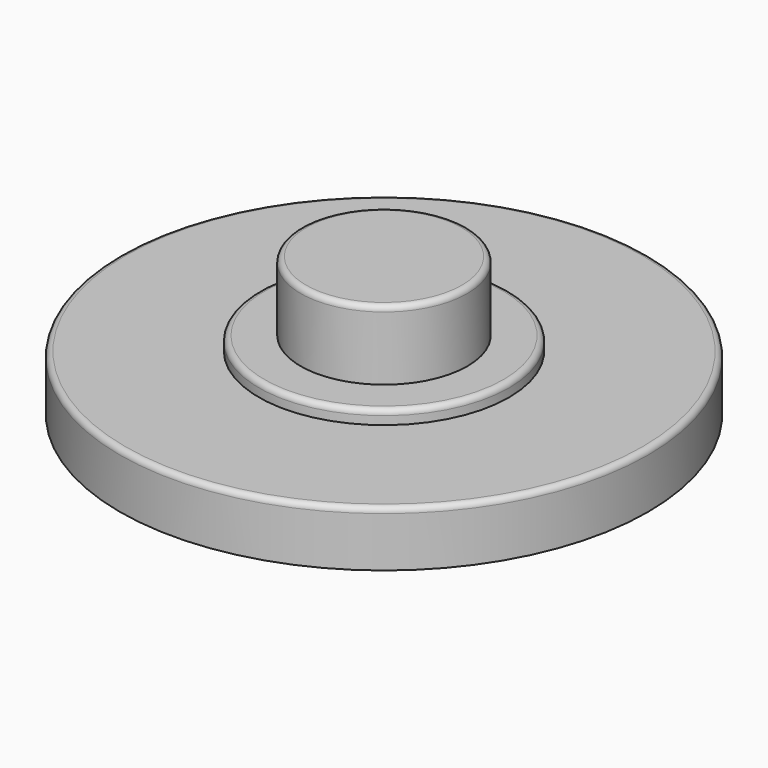
from build123d import *

# Parameters (mm, degrees)
F0_R     = 9.5
F1_DEPTH = 2
F2_R     = 4.5
F3_DEPTH = 0.5
F4_R     = 3
F5_DEPTH = 2.5
F6_R     = 0.2


with BuildPart() as f1:
    # F0 (on Top) → F1 (new body)
    with BuildSketch(Plane.XY):
        Circle(F0_R)
    extrude(amount=F1_DEPTH)

    # F2 (on face) → F3 (join)
    with BuildSketch(Plane.XY.offset(2)):
        Circle(F2_R)
    extrude(amount=F3_DEPTH)

    # F4 (on face) → F5 (join)
    with BuildSketch(Plane.XY.offset(2.5)):
        Circle(F4_R)
    extrude(amount=F5_DEPTH)

    # F6
    f6_edges = [f1.edges().sort_by_distance(p)[0] for p in [
        (-3, 0, 5),
        (-4.5, 0, 2.5),
        (-9.5, 0, 2),
    ]]
    fillet(f6_edges, radius=F6_R)


solid = f1.part
